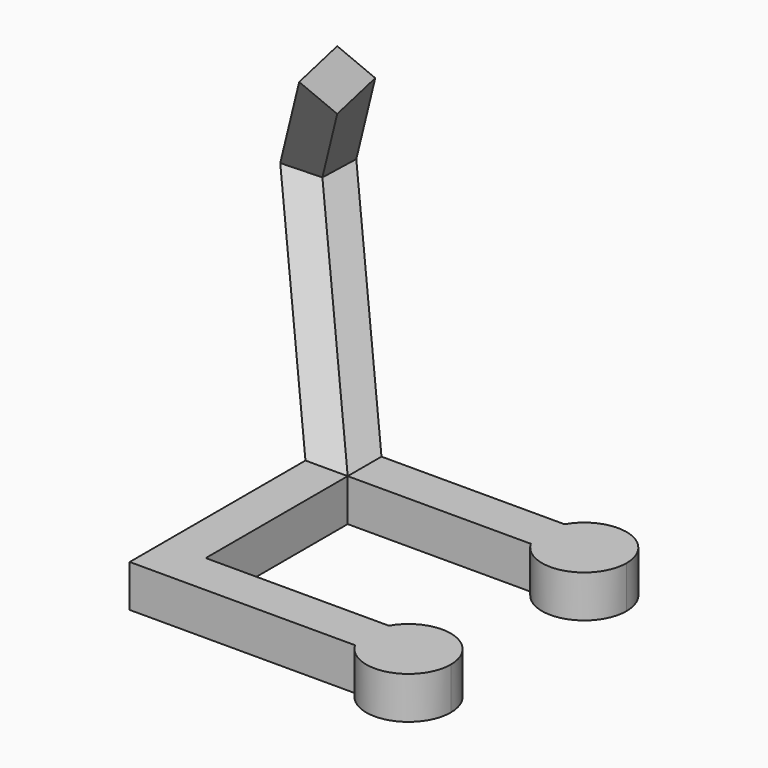
from build123d import *

# Parameters (mm, degrees)
F2_DEPTH = 5
F3_W     = 5
F3_H     = 5


with BuildPart() as f2:
    # F1 (on Top) → F2 (new body)
    with BuildSketch(Plane.XY):
        Polygon((-10.5, -10.5), (-10.5, 10.5), (-15.5, 10.5), (-15.5, -15.5), (-10.5, -15.5), align=None)
        Polygon((-10.5, -10.5), (-10.5, 10.5), (-15.5, 10.5), (-15.5, -15.5), (-10.5, -15.5), align=None)
        Polygon((-10.5, -10.5), (-10.5, 10.5), (-15.5, 10.5), (-15.5, -15.5), (-10.5, -15.5), align=None)
        with BuildLine():
            Line((-10.5, 10.5), (10.5, 10.5))
            Line((10.5, 10.5), (11.1698729811, 10.5))
            ThreePointArc((11.1698729811, 10.5), (10.5, 13), (11.1698729811, 15.5))
            Line((11.1698729811, 15.5), (-15.5, 15.5))
            Line((-15.5, 15.5), (-15.5, 10.5))
            Line((-15.5, 10.5), (-10.5, 10.5))
        make_face()
        with BuildLine():
            ThreePointArc((11.1698729811, 15.5), (10.5, 13), (11.1698729811, 10.5))
            Line((11.1698729811, 10.5), (15.5, 10.5))
            Line((15.5, 10.5), (15.5, 15.5))
            Line((15.5, 15.5), (11.1698729811, 15.5))
        make_face()
        with BuildLine():
            Line((15.5, 10.5), (11.1698729811, 10.5))
            ThreePointArc((11.1698729811, 10.5), (16.7940952255, 8.1703708686), (20.5, 13))
            ThreePointArc((20.5, 13), (16.7940952255, 17.8296291314), (11.1698729811, 15.5))
            Line((11.1698729811, 15.5), (15.5, 15.5))
            Line((15.5, 15.5), (15.5, 10.5))
        make_face()
        with BuildLine():
            Line((11.1698729811, -10.5), (10.5, -10.5))
            Line((10.5, -10.5), (-10.5, -10.5))
            Line((-10.5, -10.5), (-10.5, -15.5))
            Line((-10.5, -15.5), (11.1698729811, -15.5))
            ThreePointArc((11.1698729811, -15.5), (10.5, -13), (11.1698729811, -10.5))
        make_face()
        with BuildLine():
            Line((15.5, -10.5), (11.1698729811, -10.5))
            ThreePointArc((11.1698729811, -10.5), (10.5, -13), (11.1698729811, -15.5))
            Line((11.1698729811, -15.5), (15.5, -15.5))
            Line((15.5, -15.5), (15.5, -10.5))
        make_face()
        with BuildLine():
            ThreePointArc((20.5, -13), (16.7940952255, -8.1703708686), (11.1698729811, -10.5))
            Line((11.1698729811, -10.5), (15.5, -10.5))
            Line((15.5, -10.5), (15.5, -15.5))
            Line((15.5, -15.5), (11.1698729811, -15.5))
            ThreePointArc((11.1698729811, -15.5), (16.7940952255, -17.8296291314), (20.5, -13))
        make_face()
    extrude(amount=F2_DEPTH)

    # F7: sweep along a path in F6
    with BuildLine(Plane(origin=(0, 0, 0), x_dir=(0.7071067812, -0.7071067812, 0), z_dir=(-0.7071067812, -0.7071067812, 0))) as f7_path:
        Line((-21.9203102168, 5), (-42.9203102168, 25))
        Line((-42.9203102168, 25), (-23.6099653892, 45.275862069))
    # F3 (on face) → F7 (sweep)
    with BuildSketch(Plane.XY.offset(5)):
        with Locations((-13, 13)):
            Rectangle(F3_W, F3_H)
    sweep(path=f7_path.line, transition=Transition.RIGHT)


solid = f2.part
